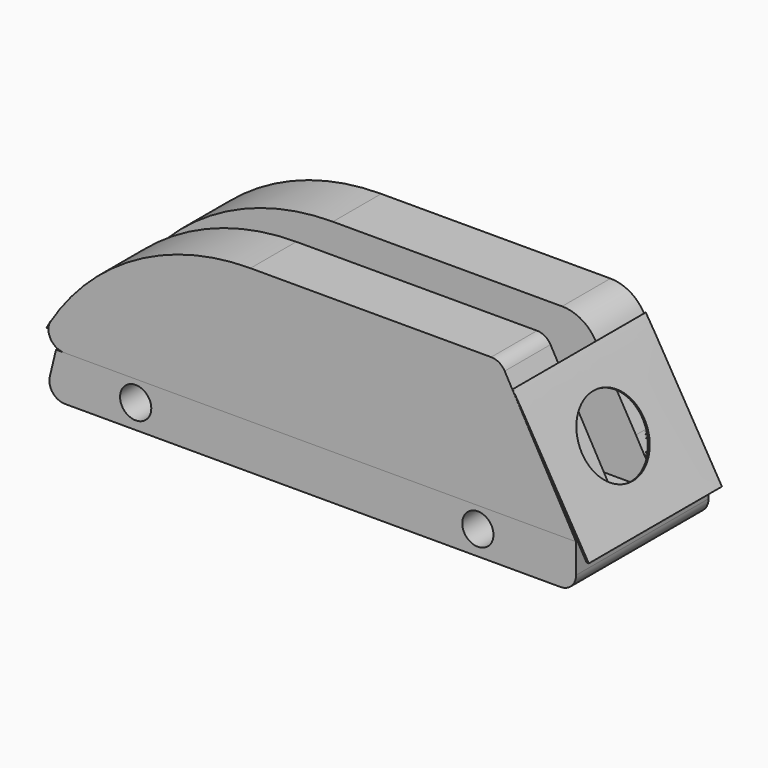
from build123d import *

# Parameters (mm, degrees)
F1_DEPTH  = 19.812
F2_R      = 5.1242394883
F3_DEPTH  = 54.356
F5_DEPTH  = 3.302
F7_DEPTH  = 18.796
F9_DEPTH  = 54.61
F10_R     = 12.7
F11_DEPTH = 2.032


with BuildPart() as f1:
    # F0 (on Front) → F1 (new body)
    with BuildSketch(Plane.XZ):
        with BuildLine():
            ThreePointArc((-85.7170157087, -9.4718691174), (-85.2277014399, -8.6365296474), (-84.727918394, -7.8074112054))
            ThreePointArc((-84.727918394, -7.8074112054), (-84.6196735387, -7.5834012546), (-84.5005909488, -7.3649596296))
            Line((-84.5005909488, -7.3649596296), (-85.7170157087, -9.4718691174))
        make_face()
    extrude(amount=F1_DEPTH)


with BuildPart() as f1b:
    # F0 (on Front) → F1, piece 2 (new body)
    with BuildSketch(Plane.XZ):
        with BuildLine():
            Line((56.1676515813, 29.0091308826), (-19.0659685826, 29.0091308826))
            ThreePointArc((-19.0659685826, 29.0091308826), (-56.7055402604, 19.1769460761), (-84.727918394, -7.8074112054))
            ThreePointArc((-84.727918394, -7.8074112054), (-84.3709562473, -12.6573089902), (-80.1011818976, -14.9849596296))
            Line((-80.1011818976, -14.9849596296), (88.9, -14.9849596296))
            Line((88.9, -14.9849596296), (67.1661742094, 22.6591308826))
            ThreePointArc((67.1661742094, 22.6591308826), (62.5176515813, 27.3076535107), (56.1676515813, 29.0091308826))
        make_face()
    extrude(amount=F1_DEPTH)

    # F2 (on Front) → F3 (join)
    with BuildSketch(Plane.XZ):
        with BuildLine():
            Line((88.3919969201, -24.1326461864), (88.3919969201, -14.480644837))
            Line((88.3919969201, -14.480644837), (-82.2959989309, -14.480644837))
            Line((-82.2959989309, -14.480644837), (-84.338073465, -22.9406729495))
            ThreePointArc((-84.338073465, -22.9406729495), (-83.3912378163, -27.2751910116), (-79.3998956834, -29.2126461864))
            Line((-79.3998956834, -29.2126461864), (83.3119969201, -29.2126461864))
            ThreePointArc((83.3119969201, -29.2126461864), (86.9040993685, -27.7247486348), (88.3919969201, -24.1326461864))
        make_face()
        with Locations((-56.155923754, -21.2976261973)):
            Circle(F2_R, mode=Mode.SUBTRACT)
        with Locations((56.155923754, -21.2976261973)):
            Circle(F2_R, mode=Mode.SUBTRACT)
    extrude(amount=F3_DEPTH)

    # F4 (on Front) → F5 (join)
    with BuildSketch(Plane.XZ):
        with BuildLine():
            Line((-79.2033924988, -16.0920950719), (-64.6572164223, -16.0920950719))
            Line((-64.6572164223, -16.0920950719), (87.7427835777, -16.0920950719))
            Line((87.7427835777, -16.0920950719), (66.3843588363, 23.2386775878))
            ThreePointArc((66.3843588363, 23.2386775878), (62.6503484255, 27.1218714479), (57.4559156475, 28.5501208723))
            Line((57.4559156475, 28.5501208723), (-17.7160610295, 28.5501208723))
            ThreePointArc((-17.7160610295, 28.5501208723), (-55.8520275253, 18.4371859625), (-83.9657350648, -9.2439058049))
            ThreePointArc((-83.9657350648, -9.2439058049), (-83.3740520076, -13.9124397517), (-79.2033924988, -16.0920950719))
        make_face()
        with BuildLine():
            ThreePointArc((-85.3490181849, -11.6840620075), (-84.6684943252, -10.4576814707), (-83.9657350648, -9.2439058049))
            ThreePointArc((-83.9657350648, -9.2439058049), (-83.8283232848, -8.9105681925), (-83.6676140932, -8.5878167141))
            Line((-83.6676140932, -8.5878167141), (-85.3490181849, -11.6840620075))
        make_face()
    extrude(amount=F5_DEPTH)


with BuildPart() as f7:
    # F6 (on face) → F7 (new body)
    with BuildSketch(Plane.XZ.offset(54.356)):
        with BuildLine():
            ThreePointArc((-84.3979765826, -7.4462883676), (-83.9359273007, -12.2182918283), (-79.7089584774, -14.480644837))
            Line((-79.7089584774, -14.480644837), (88.3919969201, -14.480644837))
            Line((88.3919969201, -14.480644837), (64.9563029427, 27.2120561769))
            ThreePointArc((64.9563029427, 27.2120561769), (63.0932272173, 29.1075762271), (60.5279528105, 29.8028564849))
            Line((60.5279528105, 29.8028564849), (-18.4734850788, 29.8028564849))
            ThreePointArc((-18.4734850788, 29.8028564849), (-56.3335477183, 19.8465659501), (-84.3979765826, -7.4462883676))
        make_face()
    extrude(amount=-F7_DEPTH)


with BuildPart() as f7b:
    # F6 (on face) → F7, piece 2 (new body)
    with BuildSketch(Plane.XZ.offset(54.356)):
        with BuildLine():
            ThreePointArc((-85.5629895815, -9.4477681811), (-84.9880117911, -8.4426459948), (-84.3979765826, -7.4462883676))
            ThreePointArc((-84.3979765826, -7.4462883676), (-84.2754796054, -7.1750472121), (-84.1373086096, -6.911445145))
            Line((-84.1373086096, -6.911445145), (-85.5629895815, -9.4477681811))
        make_face()
    extrude(amount=-F7_DEPTH)


with BuildPart() as f9:
    # F8 (on Front) → F9 (new body)
    with BuildSketch(Plane.XZ):
        with BuildLine():
            Line((92.0380936613, -19.2105540628), (92.7708144684, -19.2105540628))
            add(Edge.make_bspline(
                [(92.7708144684, -19.2105540628), (68.1595448022, 22.9657674634), (67.7605854732, 22.9657674634), (67.3616261442, 22.9657674634), (92.0380936613, -19.2105540628)],
                knots=[4.6264811026, 4.6264811026, 4.6264811026, 6.279078523, 6.279078523, 7.9316759433, 7.9316759433, 7.9316759433], degree=2, weights=[1, 0.677602429, 1, 0.677602429, 1]))
        make_face()
    extrude(amount=F9_DEPTH)


with BuildPart() as f11_tool:
    # F10 (on face) → F11 (new body)
    with BuildSketch(Plane(origin=(60.9837637908, 0, 34.279305275), x_dir=(0, 1, 0), z_dir=(0.871722467, 0, 0.4899999394))):
        with Locations((-28.5039804876, -36.6549007595)):
            Circle(F10_R)
    extrude(amount=F11_DEPTH)


with BuildPart() as f1b_1:
    add(f1b.part)

    # F11: cut by f11_tool
    add(f11_tool.part, mode=Mode.SUBTRACT)


with BuildPart() as f9_1:
    add(f9.part)

    # F11: cut by f11_tool
    add(f11_tool.part, mode=Mode.SUBTRACT)


solid = Compound([f1.part, f7.part, f7b.part, f1b_1.part, f9_1.part])
